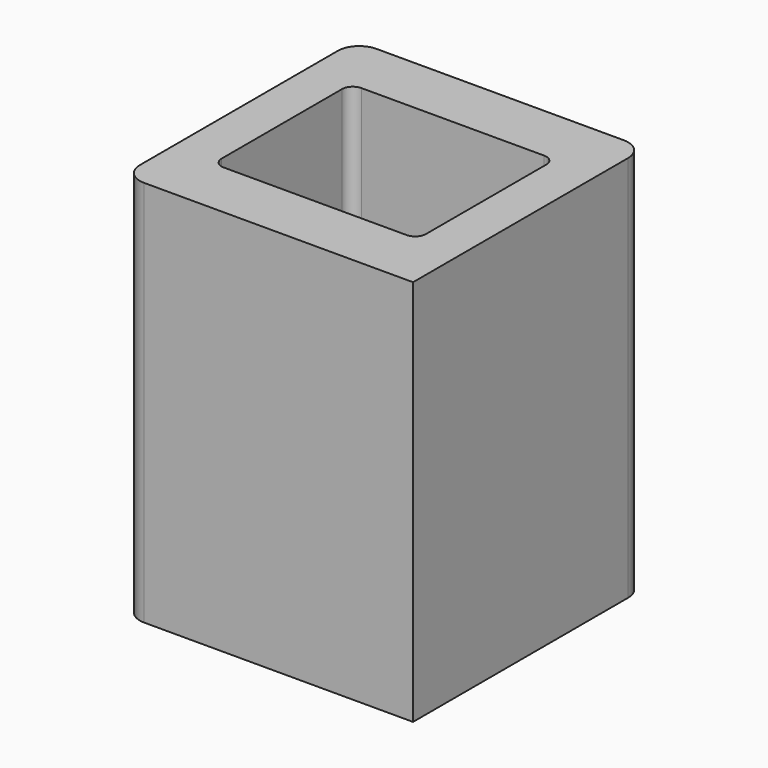
from build123d import *

# Parameters (mm, degrees)
F1_DEPTH = 914.4


with BuildPart() as f1:
    # F0 (on Top) → F1 (new body)
    with BuildSketch(Plane.XY):
        with BuildLine():
            ThreePointArc((-342.9, -292.1), (-328.021024, -328.021024), (-292.1, -342.9))
            Line((-292.1, -342.9), (342.9, -342.9))
            Line((342.9, -342.9), (342.9, 292.1))
            ThreePointArc((342.9, 292.1), (328.021024, 328.021024), (292.1, 342.9))
            Line((292.1, 342.9), (-292.1, 342.9))
            ThreePointArc((-292.1, 342.9), (-328.021024, 328.021024), (-342.9, 292.1))
            Line((-342.9, 292.1), (-342.9, -292.1))
        make_face()
        with BuildLine():
            ThreePointArc((241.3, -177.8), (233.860512, -195.760512), (215.9, -203.2))
            Line((215.9, -203.2), (-215.9, -203.2))
            ThreePointArc((-215.9, -203.2), (-233.860512, -195.760512), (-241.3, -177.8))
            Line((-241.3, -177.8), (-241.3, 177.8))
            ThreePointArc((-241.3, 177.8), (-233.860512, 195.760512), (-215.9, 203.2))
            Line((-215.9, 203.2), (215.9, 203.2))
            ThreePointArc((215.9, 203.2), (233.860512, 195.760512), (241.3, 177.8))
            Line((241.3, 177.8), (241.3, -177.8))
        make_face(mode=Mode.SUBTRACT)
    extrude(amount=-F1_DEPTH)


solid = f1.part
